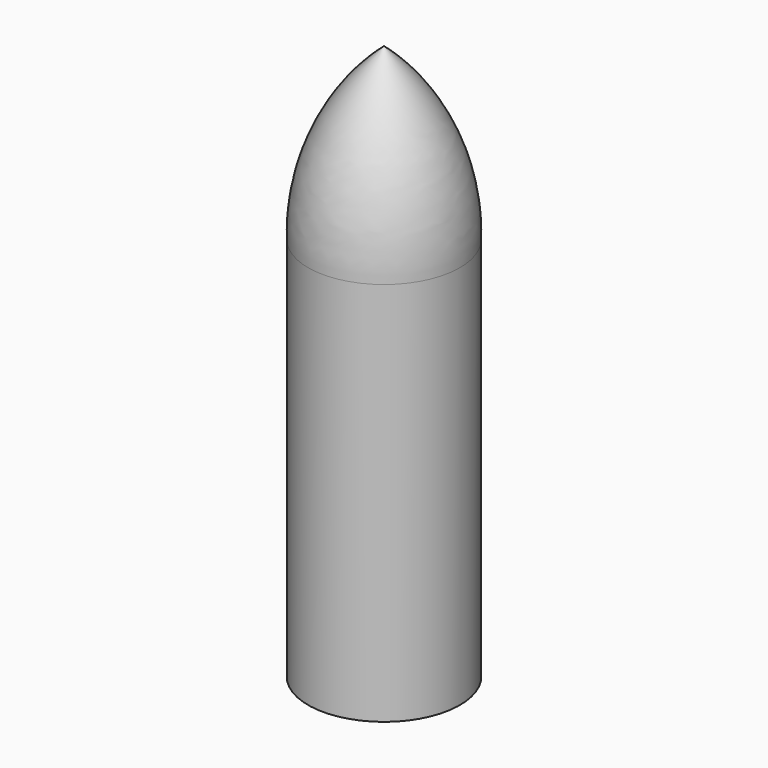
from build123d import *


with BuildPart() as f1:
    # F0 (on Right) → F1 (revolve)
    with BuildSketch(Plane.YZ):
        with BuildLine():
            Line((0, 1625.6), (0, 0))
            Line((0, 0), (101.6, 0))
            Line((101.6, 0), (101.6, 240.015262))
            ThreePointArc((101.6, 240.015262), (116.364586, 271.734327), (150.140911, 280.858576))
            ThreePointArc((150.140911, 280.858576), (202.921417, 283.418504), (228.6, 329.602327))
            Line((228.6, 329.602327), (228.6, 1269.53539))
            ThreePointArc((228.6, 1269.53539), (166.531015, 1481.100963), (0, 1625.6))
        make_face()
    revolve(axis=Axis((0, 0, 812.8), (0, 0, 1)))

    # F2 (on Right) → F3 (revolve)
    with BuildSketch(Plane.YZ):
        with BuildLine():
            Line((0, 2137.444043), (0, 1588.585455))
            Line((0, 1588.585455), (241.3, 1258.340002))
            Line((241.3, 1258.340002), (241.3, 0))
            Line((241.3, 0), (292.1, 0))
            Line((292.1, 0), (292.1, 1481.604533))
            ThreePointArc((292.1, 1481.604533), (220.424698, 1842.64954), (0, 2137.444043))
        make_face()
    revolve(axis=Axis((0, 0, 1068.722021), (0, 0, 1)))


solid = f1.part
